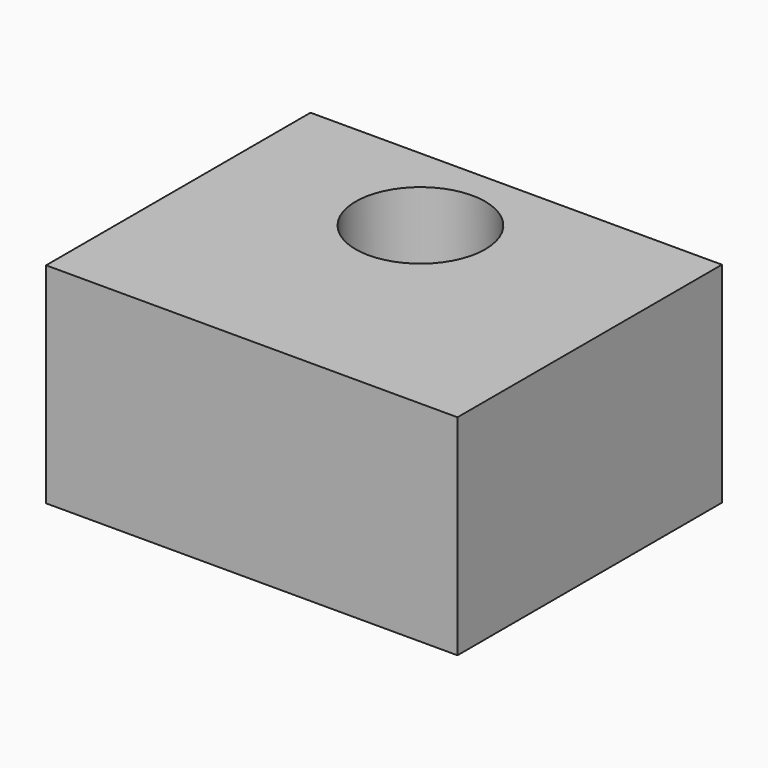
from build123d import *

# Parameters (mm, degrees)
F0_W     = 89.760222
F0_H     = 72.110448
F1_DEPTH = 22.86
F2_R     = 14.130902
F3_DEPTH = 45.72


with BuildPart() as f1:
    # F0 (on Top) → F1 (new body, symmetric)
    with BuildSketch(Plane.XY):
        with Locations((-1.369644, 0.099311)):
            Rectangle(F0_W, F0_H)
    extrude(amount=F1_DEPTH, both=True)

    # F2 (on face) → F3 (cut, through all)
    with BuildSketch(Plane.XY.offset(22.86)):
        with Locations((-5.641779, 15.380403)):
            Circle(F2_R)
    extrude(amount=-F3_DEPTH, mode=Mode.SUBTRACT)


solid = f1.part
